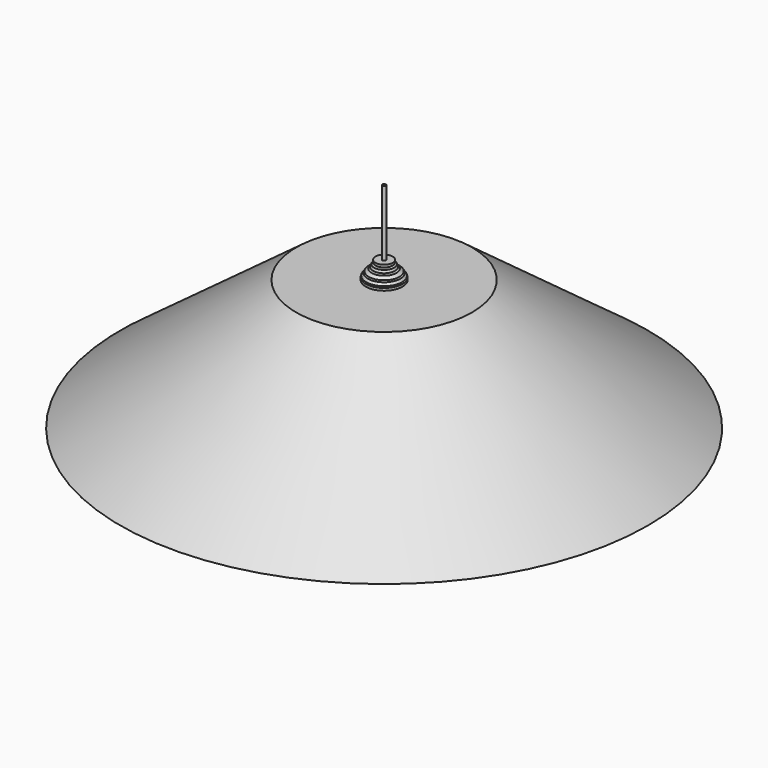
from build123d import *


with BuildPart() as f1:
    # F0 (on Front) → F1 (revolve)
    with BuildSketch(Plane.XZ):
        Polygon((75.346486, -23.351613), (76.2, -23.351613), (25.4, 14.274001), (0, 14.274001), (0, 13.766001), (25.232359, 13.766001), align=None)
    revolve(axis=Axis((0, 0, -2.557708), (0, 0, 1)))

    # F2 (on Front) → F3 (revolve)
    with BuildSketch(Plane.XZ):
        Polygon((0.522449, 38.393103), (0, 38.393103), (0, 8.292141), (2.964607, 8.292141), (5.100599, 13.610325), (0.522449, 13.610325), (0.522449, 14.274001), (5.301182, 14.274001), (5.301182, 14.977208), (0.522449, 14.977208), (0.522449, 15.386513), (5.17246, 15.386513), (4.672664, 16.08972), (0.522449, 16.08972), (0.522449, 16.499024), (4.428241, 16.499024), (3.584394, 17.202231), (0.522449, 17.202231), (0.522449, 17.611536), (3.171206, 17.611536), (2.889923, 18.314743), (0.522449, 18.314743), (0.522449, 18.724047), (2.472853, 18.724047), (2.472853, 19.427254), (0.522449, 19.427254), align=None)
    revolve(axis=Axis((0, 0, 21.031365), (0, 0, -1)))


with BuildPart() as f5:
    # F4 (on Front) → F5 (revolve)
    with BuildSketch(Plane.XZ):
        with BuildLine():
            ThreePointArc((0, -32.365124), (29.328453, -29.023772), (57.153713, -19.170973))
            Line((57.153713, -19.170973), (56.931033, -18.71438))
            ThreePointArc((56.931033, -18.71438), (29.214184, -28.528791), (0, -31.857124))
            Line((0, -31.857124), (0, -32.365124))
        make_face()
    revolve(axis=Axis((0, 0, -28.908411), (0, 0, 1)))


solid = Compound([f1.part, f5.part])
